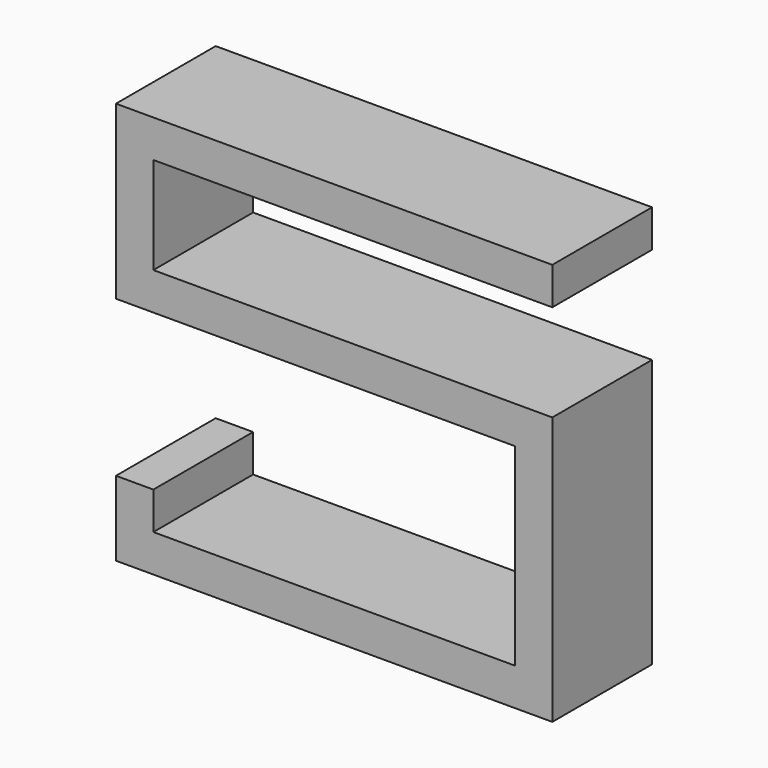
from build123d import *

# Parameters (mm, degrees)
F1_DEPTH = 25.4


with BuildPart() as f1:
    # F0 (on Front) → F1 (new body)
    with BuildSketch(Plane.XZ):
        Polygon((59.841365, 38.144891), (59.841365, 45.764891), (-29.058635, 45.764891), (-29.058635, 38.144891), (-29.058635, 10.774891), (-21.438635, 10.774891), (52.221365, 10.774891), (52.221365, -28.595109), (-21.438635, -28.595109), (-21.438635, -20.975109), (-29.058635, -20.975109), (-29.058635, -28.595109), (-29.058635, -36.215109), (59.841365, -36.215109), (59.841365, -28.595109), (59.841365, 10.774891), (59.841365, 18.394891), (-21.438635, 18.394891), (-21.438635, 38.144891), align=None)
    extrude(amount=F1_DEPTH)


solid = f1.part
